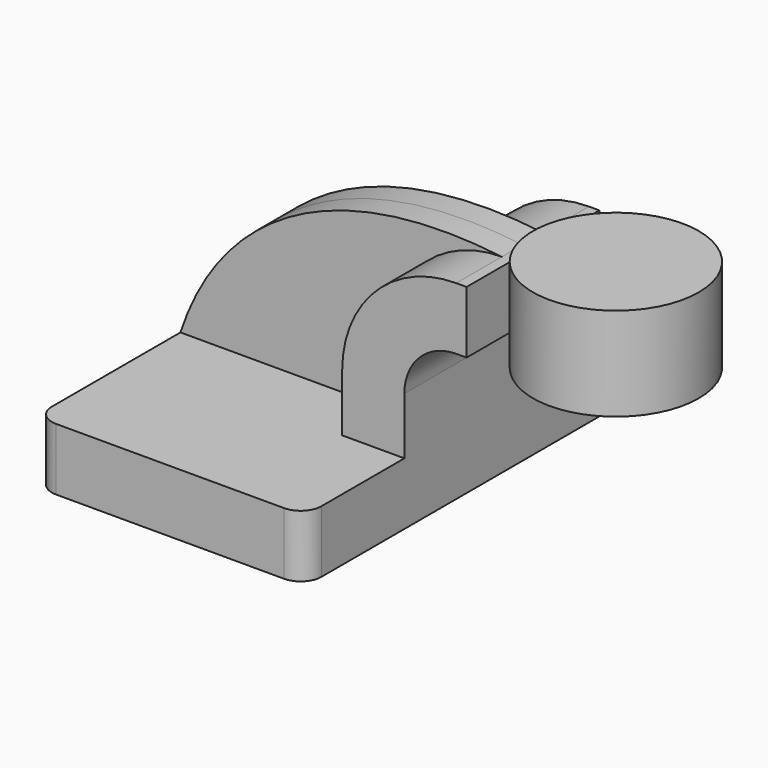
from build123d import *

# Parameters (mm, degrees)
F1_DEPTH = 63.5
F2_DEPTH = 25.4
F3_DEPTH = 7.9375
F5_R     = 6.35


with BuildPart() as f1:
    # F0 (on Front) → F1 (new body, symmetric)
    with BuildSketch(Plane.XZ):
        Polygon((0, 19.05), (0, 0), (82.55, 0), (82.55, 19.05), (63.5, 19.05), align=None)
    extrude(amount=F1_DEPTH, both=True)

    # F0 (on Front) → F2 (join, symmetric)
    with BuildSketch(Plane.XZ):
        with BuildLine():
            Line((63.5, 19.05), (82.55, 19.05))
            Line((82.55, 19.05), (82.55, 36.5252))
            ThreePointArc((82.55, 36.5252), (87.19968, 47.75052), (98.425, 52.4002))
            Line((98.425, 52.4002), (101.6, 52.4002))
            Line((101.6, 52.4002), (101.6, 71.4502))
            Line((101.6, 71.4502), (98.425, 71.4502))
            ThreePointArc((98.425, 71.4502), (73.729296, 61.220904), (63.5, 36.5252))
            Line((63.5, 36.5252), (63.5, 19.05))
        make_face()
    extrude(amount=F2_DEPTH, both=True)

    # F0 (on Front) → F3 (join, symmetric)
    with BuildSketch(Plane.XZ):
        with BuildLine():
            add(Edge.make_bspline(
                [(0, 19.05), (11.451263, 54.324433), (44.240966, 77.987105), (98.425, 71.4502)],
                knots=[0, 0, 0, 0, 111.504536, 111.504536, 111.504536, 111.504536], degree=3))
            Line((0, 19.05), (63.5, 19.05))
            Line((63.5, 19.05), (63.5, 36.5252))
            ThreePointArc((63.5, 36.5252), (73.729296, 61.220904), (98.425, 71.4502))
        make_face()
    extrude(amount=F3_DEPTH, both=True)

    # F0 (on Front) → F4 (revolve)
    with BuildSketch(Plane.XZ):
        Polygon((127, 76.2), (127, 71.4502), (127, 47.625), (152.4, 47.625), (152.4, 76.2), align=None)
    revolve(axis=Axis((127, 0, 61.9125), (0, 0, 1)))

    # F5
    f5_edges = [f1.edges().sort_by_distance(p)[0] for p in [
        (82.55, -63.5, 9.525),
        (0, 63.5, 9.525),
        (82.55, 63.5, 9.525),
        (0, -63.5, 9.525),
    ]]
    fillet(f5_edges, radius=F5_R)


solid = f1.part
